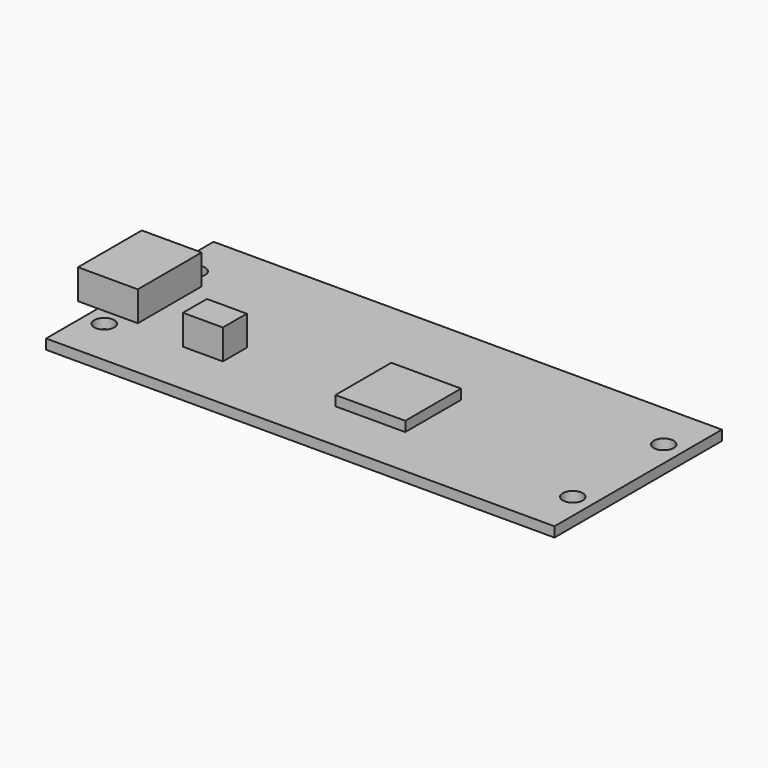
from build123d import *

# Parameters (mm, degrees)
SKETCH004_W             = 51
SKETCH004_H             = 21
SKETCH004_R             = 1
PAD003_DEPTH            = 1
SKETCH005_W             = 6
SKETCH005_H             = 8
SKETCH005_W_2           = 4
SKETCH005_H_2           = 3
PAD004_DEPTH            = 3
SKETCH006_W             = 7
SKETCH006_H             = 7
PAD005_DEPTH            = 1
BODY001_PLACEMENT_ANGLE = 180


with BuildPart() as part:
    # Sketch004 → Pad003 (new body)
    with BuildSketch(Plane.XY):
        with Locations((-25.5, 10.5)):
            Rectangle(SKETCH004_W, SKETCH004_H)
        with Locations((-49, 16.2)):
            Circle(SKETCH004_R, mode=Mode.SUBTRACT)
        with Locations((-49, 4.8)):
            Circle(SKETCH004_R, mode=Mode.SUBTRACT)
        with Locations((-2, 16.2)):
            Circle(SKETCH004_R, mode=Mode.SUBTRACT)
        with Locations((-2, 4.8)):
            Circle(SKETCH004_R, mode=Mode.SUBTRACT)
    extrude(amount=PAD003_DEPTH)

    # Sketch005 (on Face10 of Pad003) → Pad004 (join)
    with BuildSketch(Plane.XY.offset(1)):
        with Locations((-1, 10.5)):
            Rectangle(SKETCH005_W, SKETCH005_H)
        with Locations((-11.248037, 13.892912)):
            Rectangle(SKETCH005_W_2, SKETCH005_H_2)
    extrude(amount=PAD004_DEPTH)

    # Sketch006 (on Face5 of Pad004) → Pad005 (join)
    with BuildSketch(Plane.XY.offset(1)):
        with Locations((-28.391885, 12.32462)):
            Rectangle(SKETCH006_W, SKETCH006_H)
    extrude(amount=PAD005_DEPTH)


with BuildPart() as part_1:
    # Body001 placement: moved
    add(part.part.moved(Location((-2, 46.5, -8))).rotate(Axis((-2, 46.5, -8), (0, 0, 1)), BODY001_PLACEMENT_ANGLE))


solid = part_1.part
